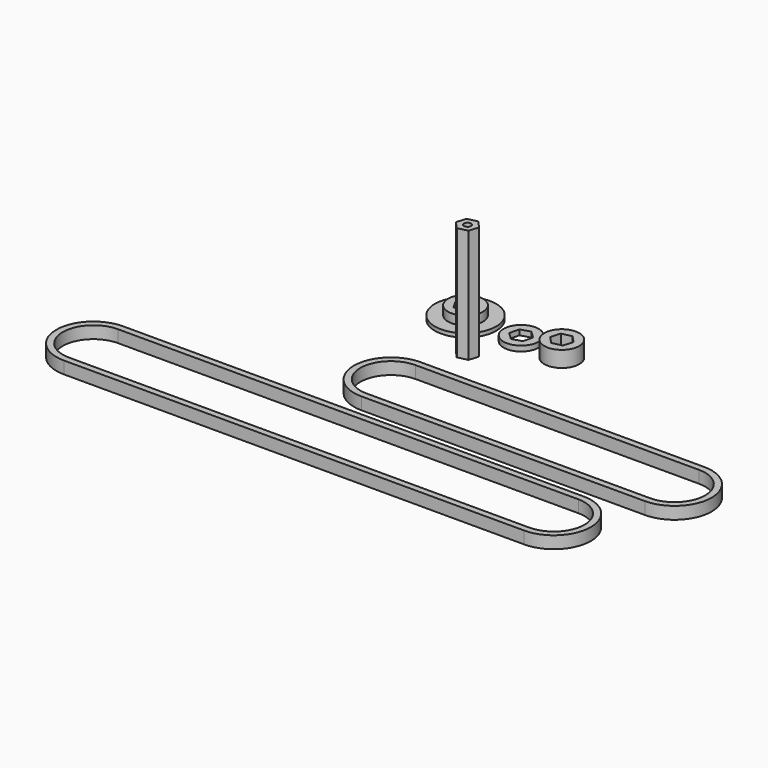
from build123d import *

# Parameters (mm, degrees)
F0_R      = 22.2377
F1_DEPTH  = 2.794
F2_R      = 12.7
F3_DEPTH  = 6.35
F4_R      = 12.7
F5_DEPTH  = 3.81
F6_R      = 2.5527
F7_DEPTH  = 82.55
F8_R      = 12.7
F9_DEPTH  = 11.60018
F11_DEPTH = 8.89
F12_DEPTH = 8.89


with BuildPart() as f1:
    # F0 (on Top) → F1 (new body)
    with BuildSketch(Plane.XY):
        with Locations((-57.694379, 58.666699)):
            Circle(F0_R)
        Polygon((-50.362031, 58.666699), (-54.028205, 52.316699), (-61.360553, 52.316699), (-65.026728, 58.666699), (-61.360553, 65.016699), (-54.028205, 65.016699), align=None, mode=Mode.SUBTRACT)
    extrude(amount=F1_DEPTH)

    # F2 (on face) → F3 (join)
    with BuildSketch(Plane.XY.offset(2.794)):
        with Locations((-57.694379, 58.666699)):
            Circle(F2_R)
        Polygon((-65.026728, 58.666699), (-61.360553, 65.016699), (-54.028205, 65.016699), (-50.362031, 58.666699), (-54.028205, 52.316699), (-61.360553, 52.316699), align=None, mode=Mode.SUBTRACT)
    extrude(amount=F3_DEPTH)


with BuildPart() as f5:
    # F4 (on Top) → F5 (new body)
    with BuildSketch(Plane.XY):
        with Locations((-16.443703, 57.542652)):
            Circle(F4_R)
        Polygon((-9.411851, 59.620244), (-11.12853, 52.491685), (-18.160382, 50.414093), (-23.475555, 55.46506), (-21.758877, 62.593618), (-14.727025, 64.671211), align=None, mode=Mode.SUBTRACT)
    extrude(amount=F5_DEPTH)


with BuildPart() as f7:
    # F6 (on Top) → F7 (new body)
    with BuildSketch(Plane.XY):
        Polygon((-32.592089, 19.341193), (-25.434346, 20.931805), (-23.232985, 27.925899), (-28.189367, 33.32938), (-35.34711, 31.738768), (-37.548471, 24.744674), align=None)
        with Locations((-30.390728, 26.335286)):
            Circle(F6_R, mode=Mode.SUBTRACT)
    extrude(amount=F7_DEPTH)


with BuildPart() as f9:
    # F8 (on Top) → F9 (new body)
    with BuildSketch(Plane.XY):
        with Locations((14.177629, 56.163803)):
            Circle(F8_R)
        Polygon((21.317488, 57.832859), (19.193004, 50.815032), (12.053145, 49.145976), (7.03777, 54.494747), (9.162255, 61.512574), (16.302113, 63.18163), align=None, mode=Mode.SUBTRACT)
    extrude(amount=F9_DEPTH)


with BuildPart() as f11:
    # F10 (on Top) → F11 (new body)
    with BuildSketch(Plane.XY):
        with BuildLine():
            Line((171.542774, -11.434188), (-34.197226, -11.434188))
            ThreePointArc((-34.197226, -11.434188), (-61.057726, -38.294688), (-34.197226, -65.155188))
            Line((-34.197226, -65.155188), (171.542774, -65.155188))
            ThreePointArc((171.542774, -65.155188), (198.403274, -38.294688), (171.542774, -11.434188))
        make_face()
        with BuildLine():
            Line((171.542774, -60.532388), (-34.197226, -60.532388))
            ThreePointArc((-34.197226, -60.532388), (-56.434926, -38.294688), (-34.197226, -16.056988))
            Line((-34.197226, -16.056988), (171.542774, -16.056988))
            ThreePointArc((171.542774, -16.056988), (193.780474, -38.294688), (171.542774, -60.532388))
        make_face(mode=Mode.SUBTRACT)
    extrude(amount=F11_DEPTH)


with BuildPart() as f12:
    # F10 (on Top) → F12 (new body)
    with BuildSketch(Plane.XY):
        with BuildLine():
            ThreePointArc((-193.364752, -82.338208), (-220.225252, -109.198708), (-193.364752, -136.059208))
            Line((-193.364752, -136.059208), (140.657948, -136.059208))
            ThreePointArc((140.657948, -136.059208), (167.518448, -109.198708), (140.657948, -82.338208))
            Line((140.657948, -82.338208), (-193.364752, -82.338208))
        make_face()
        with BuildLine():
            Line((140.657948, -131.436408), (-193.364752, -131.436408))
            ThreePointArc((-193.364752, -131.436408), (-215.602452, -109.198708), (-193.364752, -86.961008))
            Line((-193.364752, -86.961008), (140.657948, -86.961008))
            ThreePointArc((140.657948, -86.961008), (162.895648, -109.198708), (140.657948, -131.436408))
        make_face(mode=Mode.SUBTRACT)
    extrude(amount=F12_DEPTH)


solid = Compound([f1.part, f5.part, f7.part, f9.part, f11.part, f12.part])
